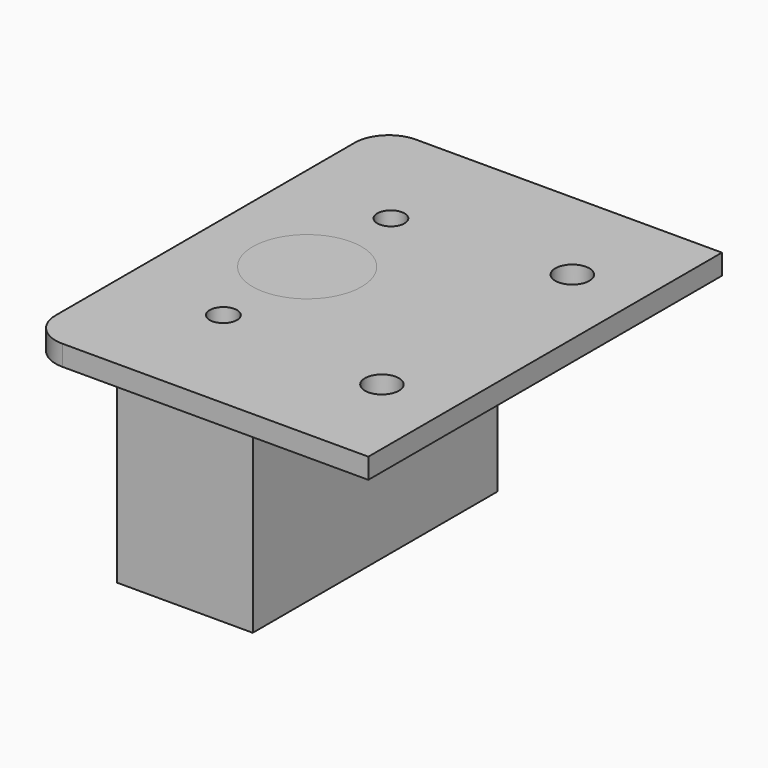
from build123d import *

# Parameters (mm, degrees)
F0_W     = 20
F0_H     = 45
F0_R     = 2
F0_R_2   = 8
F1_DEPTH = 32
F2_DEPTH = 3
F3_W     = 30
F3_H     = 65
F3_W_2   = 20
F3_H_2   = 45
F3_R     = 2.5
F4_DEPTH = 3
F5_R     = 5


with BuildPart() as f1:
    # F0 (on Top) → F1 (new body)
    with BuildSketch(Plane.XY):
        Rectangle(F0_W, F0_H)
        with Locations((0, -15.4)):
            Circle(F0_R, mode=Mode.SUBTRACT)
        Circle(F0_R_2, mode=Mode.SUBTRACT)
        with Locations((0, 15.4)):
            Circle(F0_R, mode=Mode.SUBTRACT)
    extrude(amount=-F1_DEPTH)


with BuildPart() as f2:
    # F0 (on Top) → F2 (new body)
    with BuildSketch(Plane.XY):
        Circle(F0_R_2)
    extrude(amount=F2_DEPTH)


with BuildPart() as f4:
    # F3 (on face) + F0 (on Top) → F4 (new body)
    with BuildSketch(Plane.XY):
        Rectangle(F3_W, F3_H)
        Rectangle(F3_W_2, F3_H_2, mode=Mode.SUBTRACT)
        with Locations((25, 0)):
            Rectangle(F3_W_2, F3_H)
        with Locations((25, -17.5)):
            Circle(F3_R, mode=Mode.SUBTRACT)
        with Locations((25, 17.5)):
            Circle(F3_R, mode=Mode.SUBTRACT)
    with BuildSketch(Plane.XY):
        Rectangle(F0_W, F0_H)
        with Locations((0, -15.4)):
            Circle(F0_R, mode=Mode.SUBTRACT)
        Circle(F0_R_2, mode=Mode.SUBTRACT)
        with Locations((0, 15.4)):
            Circle(F0_R, mode=Mode.SUBTRACT)
    extrude(amount=F4_DEPTH)

    # F5
    f5_edges = [f4.edges().sort_by_distance(p)[0] for p in [
        (-15, 32.5, 1.5),
        (-15, -32.5, 1.5),
    ]]
    fillet(f5_edges, radius=F5_R)


solid = Compound([f1.part, f2.part, f4.part])
